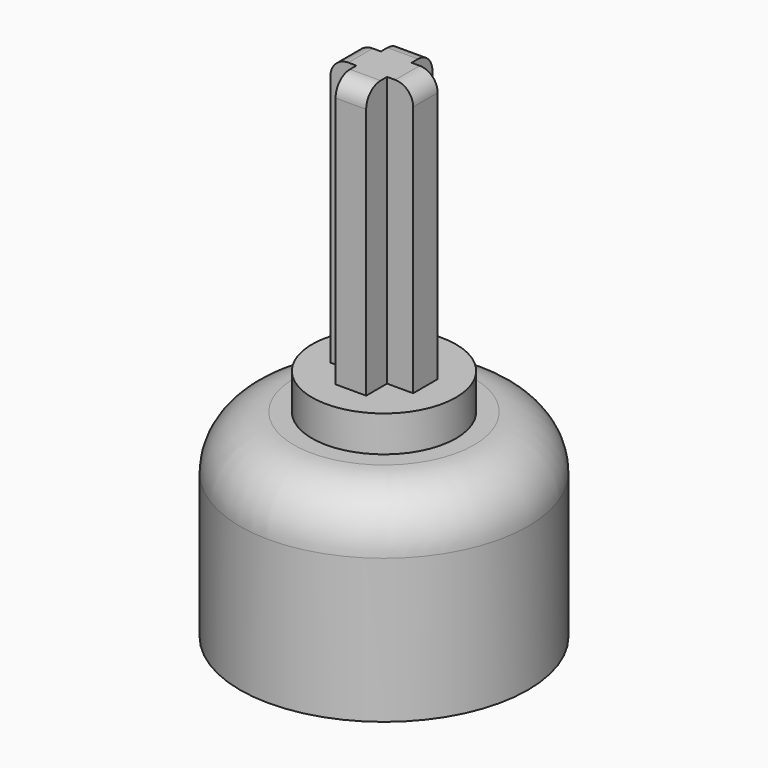
from build123d import *

# Parameters (mm, degrees)
CYLINDER002_R     = 4
CYLINDER002_DEPTH = 2
CYLINDER001_R     = 1.55
CYLINDER001_DEPTH = 9
BOX_W             = 10
BOX_H             = 2.5
BOX_DEPTH         = 11
CYLINDER_R        = 8
CYLINDER_DEPTH    = 11
FILLET002_R       = 3
BOX002_W          = 4.6
BOX002_H          = 1.7
BOX002_DEPTH      = 15
FILLET001_R       = 1
BOX001_W          = 1.7
BOX001_H          = 4.6
BOX001_DEPTH      = 15
FILLET_R          = 1


with BuildPart() as cilindro002:
    # Cylinder002 → Cylinder002 (new body)
    with BuildSketch(Plane.XY.offset(11)):
        Circle(CYLINDER002_R)
    extrude(amount=CYLINDER002_DEPTH)


with BuildPart() as cilindro001:
    # Cylinder001 → Cylinder001 (new body)
    with BuildSketch(Plane.XY):
        Circle(CYLINDER001_R)
    extrude(amount=CYLINDER001_DEPTH)


with BuildPart() as taladro:
    # Box → Box (new body)
    with BuildSketch(Plane(origin=(-5, -1.55, 0), x_dir=(1, 0, 0), z_dir=(0, 0, 1))):
        with Locations((5, 1.25)):
            Rectangle(BOX_W, BOX_H)
    extrude(amount=BOX_DEPTH)

    # Common: intersect Cilindro001
    add(cilindro001.part, mode=Mode.INTERSECT)


with BuildPart() as fillet002:
    # Cylinder → Cylinder (new body)
    with BuildSketch(Plane.XY):
        Circle(CYLINDER_R)
    extrude(amount=CYLINDER_DEPTH)

    # Cut: cut Taladro
    add(taladro.part, mode=Mode.SUBTRACT)

    # Fillet002
    fillet002_edges = [fillet002.edges().sort_by_distance(p)[0] for p in [
        (-8, 0, 11),
    ]]
    fillet(fillet002_edges, radius=FILLET002_R)


with BuildPart() as fillet001:
    # Box002 → Box002 (new body)
    with BuildSketch(Plane(origin=(-2.3, -0.85, 22), x_dir=(1, 0, 0), z_dir=(0, 0, 1))):
        with Locations((2.3, 0.85)):
            Rectangle(BOX002_W, BOX002_H)
    extrude(amount=BOX002_DEPTH)

    # Fillet001
    fillet001_edges = [fillet001.edges().sort_by_distance(p)[0] for p in [
        (-2.3, 0, 37),
        (2.3, 0, 37),
    ]]
    fillet(fillet001_edges, radius=FILLET001_R)


with BuildPart() as eje_rueda_motor:
    # Box001 → Box001 (new body)
    with BuildSketch(Plane(origin=(-0.85, -2.3, 22), x_dir=(1, 0, 0), z_dir=(0, 0, 1))):
        with Locations((0.85, 2.3)):
            Rectangle(BOX001_W, BOX001_H)
    extrude(amount=BOX001_DEPTH)

    # Fillet
    fillet_edges = [eje_rueda_motor.edges().sort_by_distance(p)[0] for p in [
        (0, -2.3, 37),
        (0, 2.3, 37),
    ]]
    fillet(fillet_edges, radius=FILLET_R)

    # Fusion: union Fillet001
    add(fillet001.part)


with BuildPart() as eje_rueda_motor_1:
    # Fusion placement: moved
    add(eje_rueda_motor.part.moved(Location((0, 0, -9))))

    # Fusion001: union Cilindro002, Fillet002
    add(cilindro002.part)
    add(fillet002.part)


solid = eje_rueda_motor_1.part
